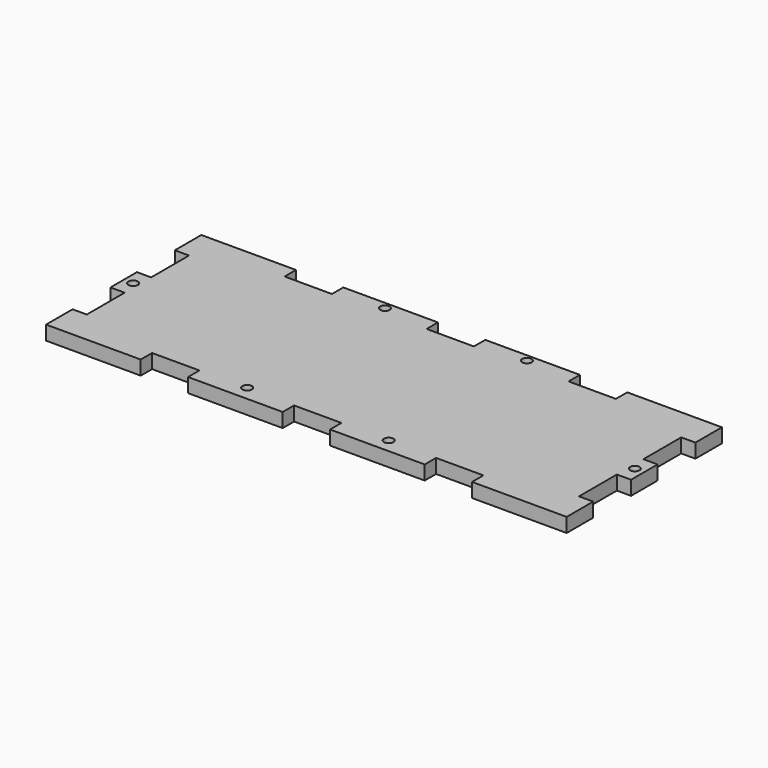
from build123d import *

# Parameters (mm, degrees)
F0_R     = 1
F1_DEPTH = 3


with BuildPart() as f1:
    # F0 (on Top) → F1 (new body)
    with BuildSketch(Plane.XY):
        Polygon((-52.046875, -15.328125), (-52.046875, -22.328125), (-32.046875, -22.328125), (-32.046875, -19.328125), (-22.046875, -19.328125), (-22.046875, -22.328125), (-2.046875, -22.328125), (-2.046875, -19.328125), (2.953125, -19.328125), (7.953125, -19.328125), (7.953125, -22.328125), (27.953125, -22.328125), (27.953125, -19.328125), (37.953125, -19.328125), (37.953125, -22.328125), (57.953125, -22.328125), (57.953125, -15.328125), (54.953125, -15.328125), (54.953125, -5.328125), (57.953125, -5.328125), (57.953125, 1.671875), (54.953125, 1.671875), (54.953125, 11.671875), (57.953125, 11.671875), (57.953125, 18.671875), (37.953125, 18.671875), (37.953125, 15.671875), (27.953125, 15.671875), (27.953125, 18.671875), (7.953125, 18.671875), (7.953125, 15.671875), (2.953125, 15.671875), (-2.046875, 15.671875), (-2.046875, 18.671875), (-22.046875, 18.671875), (-22.046875, 15.671875), (-32.046875, 15.671875), (-32.046875, 18.671875), (-52.046875, 18.671875), (-52.046875, 11.671875), (-49.046875, 11.671875), (-49.046875, 1.671875), (-52.046875, 1.671875), (-52.046875, -5.328125), (-49.046875, -5.328125), (-49.046875, -15.328125), align=None)
        with Locations((-12.046875, -19.22513)):
            Circle(F0_R, mode=Mode.SUBTRACT)
        with Locations((17.953125, -19.328125)):
            Circle(F0_R, mode=Mode.SUBTRACT)
        with Locations((-50.046875, -1.828125)):
            Circle(F0_R, mode=Mode.SUBTRACT)
        with Locations((-12.046875, 17.171875)):
            Circle(F0_R, mode=Mode.SUBTRACT)
        with Locations((55.953125, -1.828125)):
            Circle(F0_R, mode=Mode.SUBTRACT)
        with Locations((17.953125, 17.171875)):
            Circle(F0_R, mode=Mode.SUBTRACT)
    extrude(amount=F1_DEPTH)


solid = f1.part
